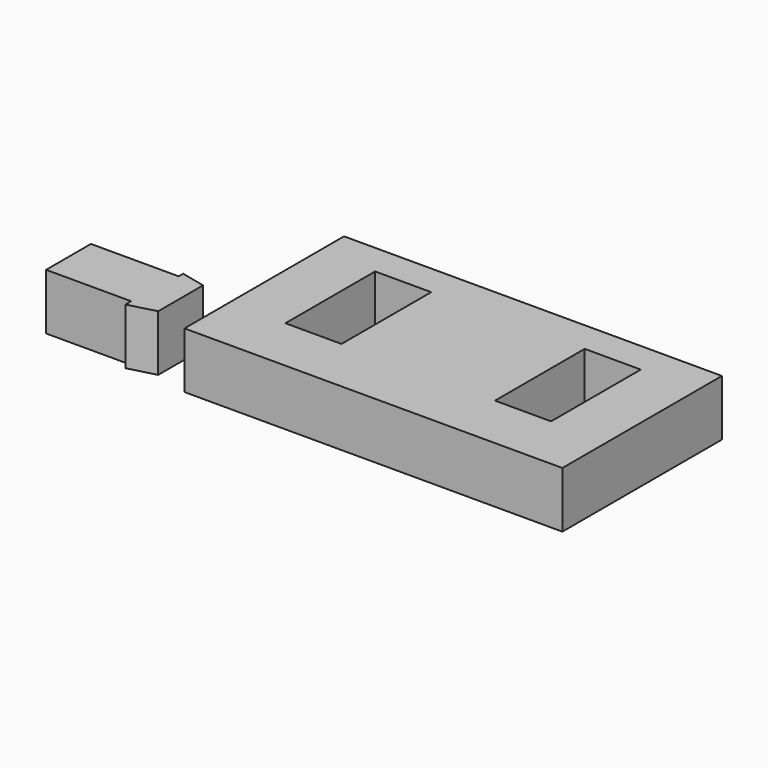
from build123d import *

# Parameters (mm, degrees)
F0_W     = 33.7
F0_H     = 17.782991
F0_W_2   = 5
F0_H_2   = 10
F1_DEPTH = 5
F3_DEPTH = 5


with BuildPart() as f1:
    # F0 (on Top) → F1 (new body)
    with BuildSketch(Plane.XY):
        with Locations((0, 8.891495)):
            Rectangle(F0_W, F0_H)
        with Locations((-9.35, 10)):
            Rectangle(F0_W_2, F0_H_2, mode=Mode.SUBTRACT)
        with Locations((9.340002, 10)):
            Rectangle(F0_W_2, F0_H_2, mode=Mode.SUBTRACT)
    extrude(amount=F1_DEPTH)


with BuildPart() as f3:
    # F2 (on Top) → F3 (new body)
    with BuildSketch(Plane.XY):
        Polygon((-29.897321, 0.879271), (-22.310803, 0.879271), (-22.310803, 0.239651), (-19.897321, 0.879271), (-19.897321, 5.879271), (-22.068648, 6.381999), (-22.068648, 5.879271), (-29.897321, 5.879271), align=None)
    extrude(amount=F3_DEPTH)


solid = Compound([f1.part, f3.part])
